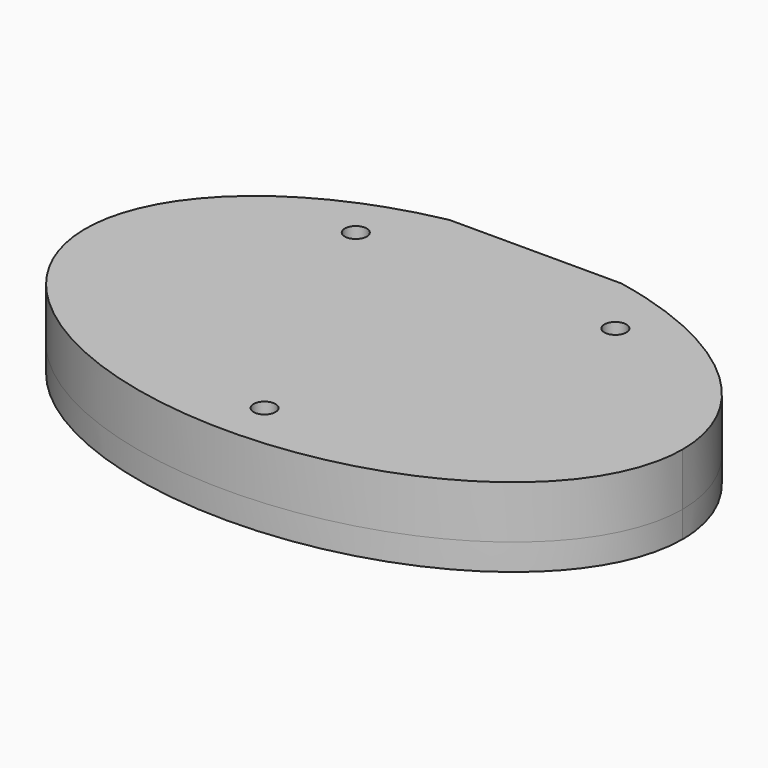
from build123d import *

# Parameters (mm, degrees)
PAD_DEPTH       = 6
POCKET_DEPTH    = 3
PAD001_DEPTH    = 3
SKETCH003_W     = 56
SKETCH003_H     = 2.77
POCKET001_DEPTH = 3
SKETCH004_W     = 19.6
SKETCH004_H     = 1
POCKET002_DEPTH = 9.001
SKETCH005_R     = 1.25
POCKET003_DEPTH = 9.001


with BuildPart() as part:
    # Sketch → Pad (new body)
    with BuildSketch(Plane.XY):
        with BuildLine():
            add(Edge.make_bspline(
                [(34, 0), (34, 38.971143), (-17, 19.485572), (-68, 0), (-17, -19.485572), (34, -38.971143), (34, 0)],
                knots=[0, 0, 0, 2.094395, 2.094395, 4.18879, 4.18879, 6.283185, 6.283185, 6.283185], degree=2, weights=[1, 0.5, 1, 0.5, 1, 0.5, 1]))
        make_face()
    extrude(amount=PAD_DEPTH)

    # Sketch001 (on Face2 of Pad) → Pocket (cut)
    with BuildSketch(Plane(origin=(0, 0, 0), x_dir=(1, 0, 0), z_dir=(0, 0, -1))):
        Polygon((9.775, -3.450064), (9.775, -21.550064), (-9.775, -21.550064), (-9.775, -3.450064), (-28.5, -3.450064), (-28.5, 8.549936), (28.5, 8.549936), (28.5, -3.450064), align=None)
    extrude(amount=-POCKET_DEPTH, mode=Mode.SUBTRACT)

    # Sketch002 (on Face2 of Pocket) → Pad001 (join)
    with BuildSketch(Plane(origin=(0, 0, 0), x_dir=(1, 0, 0), z_dir=(0, 0, -1))):
        with BuildLine():
            add(Edge.make_bspline(
                [(34, 0), (34, 38.971143), (-17, 19.485572), (-68, 0), (-17, -19.485572), (34, -38.971143), (34, 0)],
                knots=[0, 0, 0, 2.094395, 2.094395, 4.18879, 4.18879, 6.283185, 6.283185, 6.283185], degree=2, weights=[1, 0.5, 1, 0.5, 1, 0.5, 1]))
        make_face()
    extrude(amount=PAD001_DEPTH)

    # Sketch003 (on Face4 of Pad001) → Pocket001 (cut)
    with BuildSketch(Plane(origin=(0, 0, -3), x_dir=(1, 0, 0), z_dir=(0, 0, -1))):
        with Locations((0, 2.549936)):
            Rectangle(SKETCH003_W, SKETCH003_H)
    extrude(amount=-POCKET001_DEPTH, mode=Mode.SUBTRACT)

    # Sketch004 (on Face4 of Pocket001) → Pocket002 (cut, through all)
    with BuildSketch(Plane(origin=(0, 0, -3), x_dir=(1, 0, 0), z_dir=(0, 0, -1))):
        with Locations((0, -22.045091)):
            Rectangle(SKETCH004_W, SKETCH004_H)
    extrude(amount=-POCKET002_DEPTH, mode=Mode.SUBTRACT)

    # Sketch005 (on Face7 of Pocket002) → Pocket003 (cut, through all)
    with BuildSketch(Plane(origin=(0, 0, -3), x_dir=(1, 0, 0), z_dir=(0, 0, -1))):
        with Locations((-14.775, -14.450064)):
            Circle(SKETCH005_R)
        with Locations((0, 17)):
            Circle(SKETCH005_R)
        with Locations((14.775, -14.450064)):
            Circle(SKETCH005_R)
    extrude(amount=-POCKET003_DEPTH, mode=Mode.SUBTRACT)


solid = part.part
